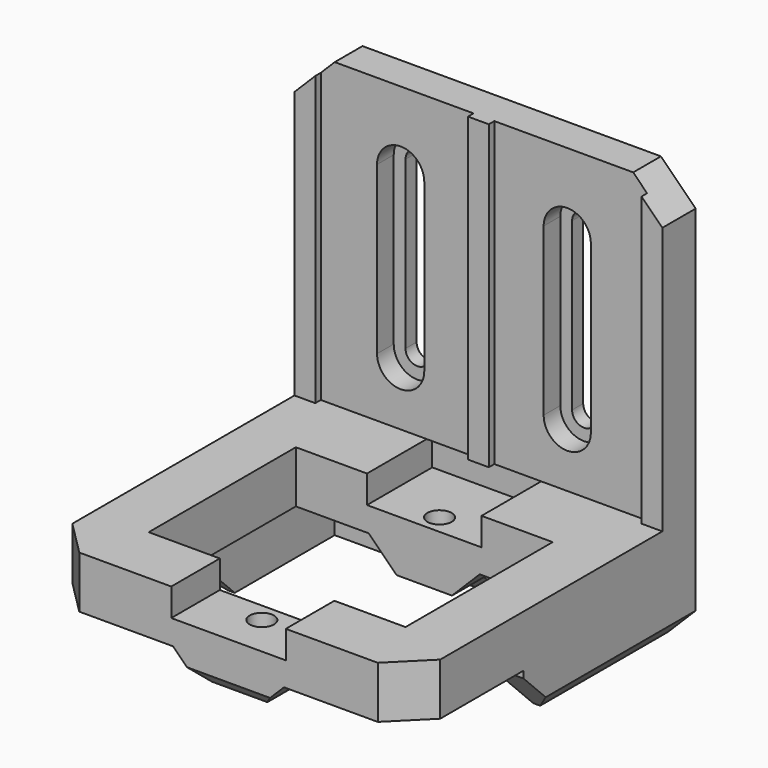
from build123d import *

# Parameters (mm, degrees)
EXTRUDE002_DEPTH = 2.5
BOX001_W         = 53
BOX001_H         = 46
BOX001_DEPTH     = 5
BOX002_W         = 5
BOX002_H         = 30
BOX002_DEPTH     = 12
BOX003_W         = 5
BOX003_H         = 30
BOX003_DEPTH     = 12
BOX_W            = 53
BOX_H            = 5
BOX_DEPTH        = 60
SKETCH028_R      = 1.75
SKETCH028_R_2    = 13.25
POCKET001_DEPTH  = 5
CHAMFER_SIZE     = 8
CHAMFER001_SIZE  = 4
SKETCH029_W      = 16.5
SKETCH029_H      = 46
POCKET002_DEPTH  = 1.5
CHAMFER002_SIZE  = 5
CHAMFER003_SIZE  = 5
POCKET003_DEPTH  = 5
POCKET004_DEPTH  = 3
SKETCH032_W      = 37
SKETCH032_H      = 26.5
POCKET005_DEPTH  = 5
SKETCH033_W      = 3
SKETCH033_H      = 47.5
PAD003_DEPTH     = 1
SKETCH034_W      = 8
SKETCH034_H      = 8.75
SKETCH034_R      = 1.75
SKETCH034_H_2    = 10.75
PAD004_DEPTH     = 4
SKETCH035_W      = 16.5
SKETCH035_H      = 4
POCKET006_DEPTH  = 2
CHAMFER004_SIZE  = 4.99
CHAMFER005_SIZE  = 3.99
CHAMFER006_SIZE  = 2


with BuildPart() as extrude002:
    # Facebinder → Extrude002 (new body)
    with BuildSketch(Plane(origin=(40.336531, -57.03076, 116), x_dir=(0, 1, 0), z_dir=(0, 0, 1))):
        Polygon((-18.96924, 7.336531), (-23.96924, 2.336531), (-23.96924, -10.913469), (-15.21924, -10.913469), (-15.21924, -0.663469), (11.28076, -0.663469), (11.28076, -10.913469), (22.03076, -10.913469), (22.03076, 7.336531), align=None)
        Polygon((-23.96924, -40.663469), (-18.96924, -45.663469), (22.03076, -45.663469), (22.03076, -27.413469), (11.28076, -27.413469), (11.28076, -37.663469), (-15.21924, -37.663469), (-15.21924, -27.413469), (-23.96924, -27.413469), align=None)
    extrude(amount=EXTRUDE002_DEPTH)


with BuildPart() as box001:
    # Box001 → Box001 (new body)
    with BuildSketch(Plane(origin=(33, -76, 111), x_dir=(1, 0, 0), z_dir=(0, 0, 1))):
        with Locations((26.5, 23)):
            Rectangle(BOX001_W, BOX001_H)
    extrude(amount=BOX001_DEPTH)


with BuildPart() as box002:
    # Box002 → Box002 (new body)
    with BuildSketch(Plane(origin=(81, -56, 102), x_dir=(1, 0, 0), z_dir=(0, 0, 1))):
        with Locations((2.5, 15)):
            Rectangle(BOX002_W, BOX002_H)
    extrude(amount=BOX002_DEPTH)


with BuildPart() as box003:
    # Box003 → Box003 (new body)
    with BuildSketch(Plane(origin=(33, -56, 102), x_dir=(1, 0, 0), z_dir=(0, 0, 1))):
        with Locations((2.5, 15)):
            Rectangle(BOX003_W, BOX003_H)
    extrude(amount=BOX003_DEPTH)


with BuildPart() as chamfer006:
    # Box → Box (new body)
    with BuildSketch(Plane(origin=(33, -30, 102), x_dir=(1, 0, 0), z_dir=(0, 0, 1))):
        with Locations((26.5, 2.5)):
            Rectangle(BOX_W, BOX_H)
    extrude(amount=BOX_DEPTH)

    # Fusion001: union Box001, Box002, Box003
    add(box001.part)
    add(box002.part)
    add(box003.part)


with BuildPart() as chamfer006_1:
    # Fusion001 placement: moved
    add(chamfer006.part.moved(Location((0, -5, 0))))

    # Sketch028 → Pocket001 (cut)
    with BuildSketch(Plane(origin=(0, -5, 116), x_dir=(1, 0, 0), z_dir=(0, 0, 1))):
        with Locations((59.5, -70)):
            Circle(SKETCH028_R)
        with Locations((59.5, -38)):
            Circle(SKETCH028_R)
        with Locations((59.5, -54)):
            Circle(SKETCH028_R_2)
    extrude(amount=-POCKET001_DEPTH, mode=Mode.SUBTRACT)

    # Chamfer
    chamfer_edges = [chamfer006_1.edges().sort_by_distance(p)[0] for p in [
        (83.5, -61, 102),
        (35.5, -61, 102),
    ]]
    chamfer(chamfer_edges, length=CHAMFER_SIZE)

    # Chamfer001
    chamfer001_edges = [chamfer006_1.edges().sort_by_distance(p)[0] for p in [
        (86, -41.5, 102),
        (33, -41.5, 102),
    ]]
    chamfer(chamfer001_edges, length=CHAMFER001_SIZE)

    # Sketch029 → Pocket002 (cut)
    with BuildSketch(Plane(origin=(0, -5, 116), x_dir=(1, 0, 0), z_dir=(0, 0, 1))):
        with Locations((59.5, -53)):
            Rectangle(SKETCH029_W, SKETCH029_H)
    extrude(amount=-POCKET002_DEPTH, mode=Mode.SUBTRACT)

    # Chamfer002
    chamfer002_edges = [chamfer006_1.edges().sort_by_distance(p)[0] for p in [
        (86, -81, 113.5),
        (33, -81, 113.5),
    ]]
    chamfer(chamfer002_edges, length=CHAMFER002_SIZE)

    # Chamfer003
    chamfer003_edges = [chamfer006_1.edges().sort_by_distance(p)[0] for p in [
        (86, -32.5, 162),
        (33, -32.5, 162),
    ]]
    chamfer(chamfer003_edges, length=CHAMFER003_SIZE)

    # Sketch030 → Pocket003 (cut)
    with BuildSketch(Plane.XZ.offset(35)):
        with BuildLine():
            Line((49.2, 151), (49.2, 127))
            ThreePointArc((45.8, 127), (47.5, 125.3), (49.2, 127))
            Line((45.8, 127), (45.8, 151.000018))
            ThreePointArc((49.2, 151), (47.500009, 152.7), (45.8, 151.000018))
        make_face()
        with BuildLine():
            Line((69.8, 151), (69.8, 127))
            ThreePointArc((69.8, 127), (71.5, 125.3), (73.2, 127))
            Line((73.2, 127), (73.2, 151))
            ThreePointArc((73.2, 151), (71.5, 152.7), (69.8, 151))
        make_face()
    extrude(amount=-POCKET003_DEPTH, mode=Mode.SUBTRACT)

    # Sketch031 → Pocket004 (cut)
    with BuildSketch(Plane.XZ.offset(35)):
        with BuildLine():
            ThreePointArc((50.9, 151), (47.5, 154.4), (44.1, 151))
            Line((44.1, 151), (44.1, 127))
            ThreePointArc((44.1, 127), (47.5, 123.6), (50.9, 127))
            Line((50.9, 151), (50.9, 127))
        make_face()
        with BuildLine():
            ThreePointArc((74.9, 151), (71.5, 154.4), (68.1, 151))
            Line((68.1, 151), (68.1, 127))
            ThreePointArc((68.1, 127), (71.5, 123.6), (74.9, 127))
            Line((74.9, 151), (74.9, 127))
        make_face()
    extrude(amount=-POCKET004_DEPTH, mode=Mode.SUBTRACT)

    # Sketch032 → Pocket005 (cut)
    with BuildSketch(Plane(origin=(0, -5, 116), x_dir=(1, 0, 0), z_dir=(0, 0, 1))):
        with Locations((59.5, -54)):
            Rectangle(SKETCH032_W, SKETCH032_H)
    extrude(amount=-POCKET005_DEPTH, mode=Mode.SUBTRACT)

    # Fusion002: union Extrude002
    add(extrude002.part)

    # Sketch033 → Pad003 (new body)
    with BuildSketch(Plane.XZ.offset(35)):
        Polygon((33, 118.5), (36, 118.5), (36, 156.631975), (36, 160), (33, 157), align=None)
        Polygon((86, 118.5), (83, 118.5), (83, 156.631975), (83, 160), (86, 157), align=None)
        with Locations((59.5, 138.25)):
            Rectangle(SKETCH033_W, SKETCH033_H)
    extrude(amount=PAD003_DEPTH)

    # Sketch034 → Pad004 (new body)
    with BuildSketch(Plane(origin=(0, 0, 111), x_dir=(1, 0, 0), z_dir=(0, 0, -1))):
        with Locations((59.5, 76.625)):
            Rectangle(SKETCH034_W, SKETCH034_H)
        with Locations((59.5, 75)):
            Circle(SKETCH034_R, mode=Mode.SUBTRACT)
        with Locations((59.5, 40.375)):
            Rectangle(SKETCH034_W, SKETCH034_H_2)
        with Locations((59.5, 43)):
            Circle(SKETCH034_R, mode=Mode.SUBTRACT)
    extrude(amount=PAD004_DEPTH)

    # Sketch035 → Pocket006 (cut)
    with BuildSketch(Plane.XZ.offset(36)):
        with Locations((59.5, 116.5)):
            Rectangle(SKETCH035_W, SKETCH035_H)
    extrude(amount=-POCKET006_DEPTH, mode=Mode.SUBTRACT)

    # Chamfer004
    chamfer004_edges = [chamfer006_1.edges().sort_by_distance(p)[0] for p in [
        (59.5, -35, 107),
    ]]
    chamfer(chamfer004_edges, length=CHAMFER004_SIZE)

    # Chamfer005
    chamfer005_edges = [chamfer006_1.edges().sort_by_distance(p)[0] for p in [
        (63.5, -76.625, 111),
        (63.5, -40.375, 111),
        (55.5, -40.375, 111),
        (55.5, -76.625, 111),
    ]]
    chamfer(chamfer005_edges, length=CHAMFER005_SIZE)

    # Chamfer006
    chamfer006_edges = [chamfer006_1.edges().sort_by_distance(p)[0] for p in [
        (59.5, -81, 107),
    ]]
    chamfer(chamfer006_edges, length=CHAMFER006_SIZE)


solid = chamfer006_1.part
